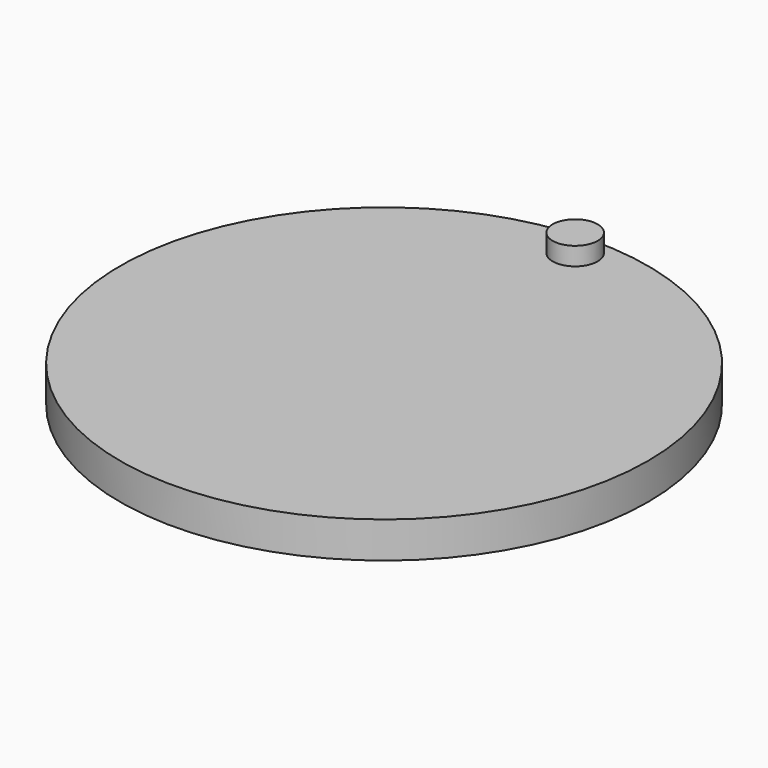
from build123d import *

# Parameters (mm, degrees)
F0_R     = 46.281121
F1_DEPTH = 6.35
F2_R     = 3.940573
F3_DEPTH = 3.175


with BuildPart() as f1:
    # F0 (on Top) → F1 (new body)
    with BuildSketch(Plane.XY):
        Circle(F0_R)
    extrude(amount=F1_DEPTH)

    # F2 (on face) → F3 (join)
    with BuildSketch(Plane.XY.offset(6.35)):
        with Locations((0, 41.877676)):
            Circle(F2_R)
    extrude(amount=F3_DEPTH)


solid = f1.part
